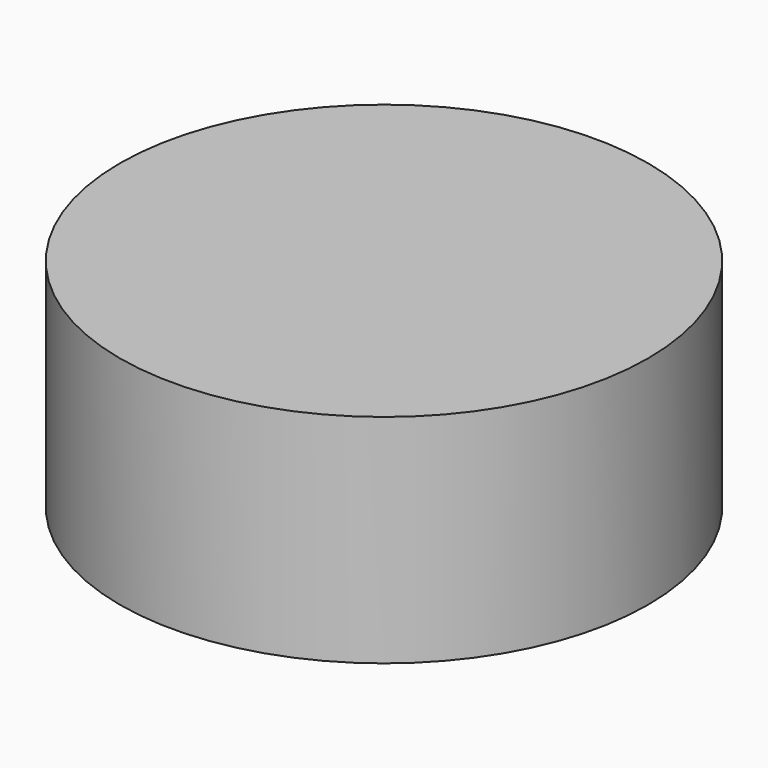
from build123d import *

# Parameters (mm, degrees)
CYLINDER_R     = 18.2626
CYLINDER_DEPTH = 15


with BuildPart() as part:
    # Cylinder → Cylinder (new body)
    with BuildSketch(Plane.XY.offset(-2.5)):
        Circle(CYLINDER_R)
    extrude(amount=CYLINDER_DEPTH)


solid = part.part
